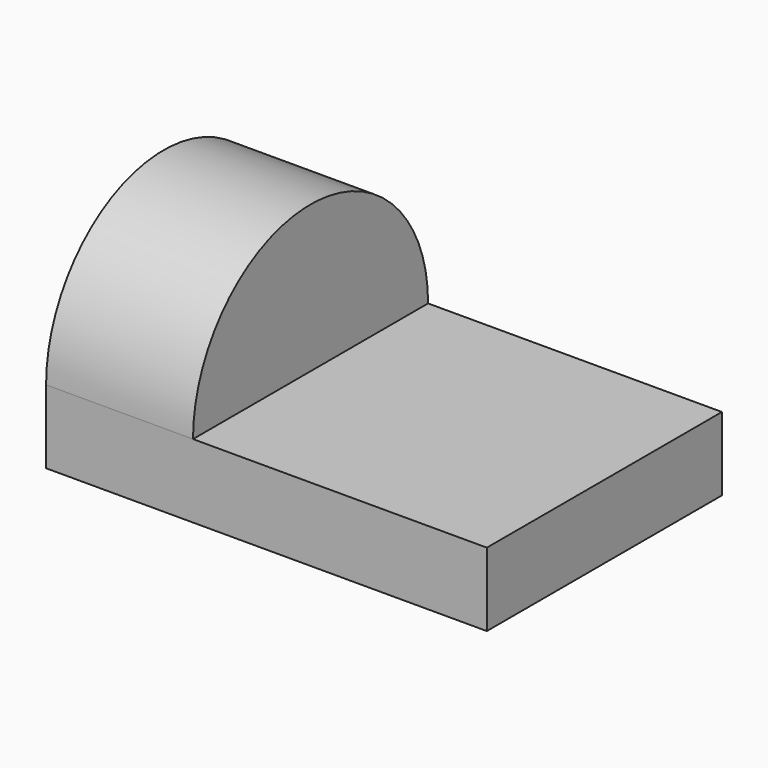
from build123d import *

# Parameters (mm, degrees)
F0_W     = 38.1
F0_H     = 25.4
F1_DEPTH = 6.35
F3_DEPTH = 12.7


with BuildPart() as f1:
    # F0 (on Top) → F1 (new body)
    with BuildSketch(Plane.XY):
        with Locations((19.05, 12.7)):
            Rectangle(F0_W, F0_H)
    extrude(amount=F1_DEPTH)

    # F2 (on face) → F3 (join)
    with BuildSketch(Plane(origin=(0, 0, 0), x_dir=(0, -1, 0), z_dir=(-1, 0, 0))):
        with BuildLine():
            Line((-25.4, 6.35), (0, 6.35))
            ThreePointArc((0, 6.35), (-12.7, 19.05), (-25.4, 6.35))
        make_face()
    extrude(amount=-F3_DEPTH)


solid = f1.part
